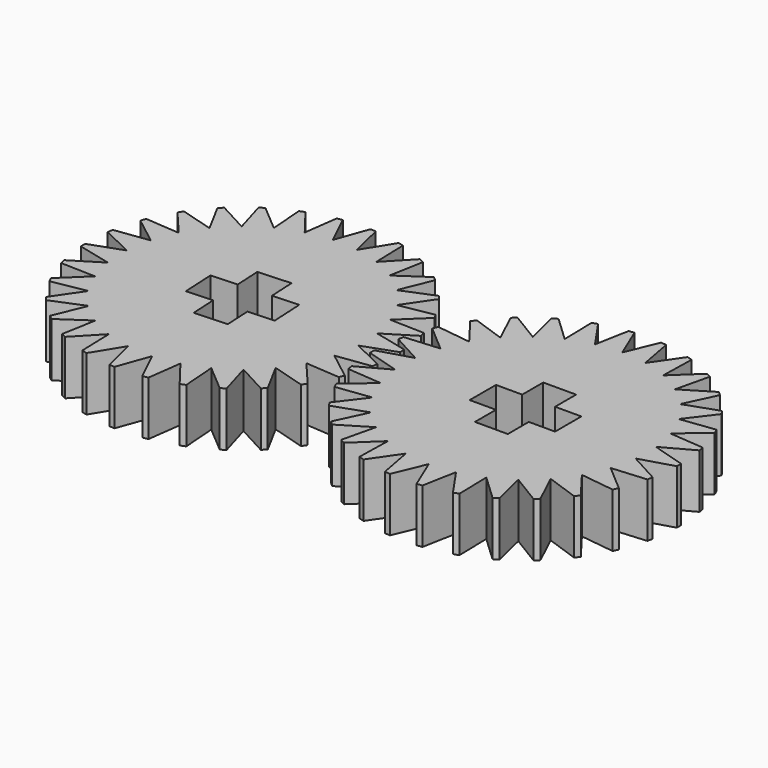
from build123d import *

# Parameters (mm, degrees)
PAD_DEPTH                 = 3
CYLINDER_R                = 8.5
CYLINDER_DEPTH            = 10
PAD001_DEPTH              = 3
CYLINDER001_R             = 8.5
CYLINDER001_DEPTH         = 10
COMMON001_PLACEMENT_ANGLE = 3


with BuildPart() as body:
    # Sketch → Pad (new body)
    with BuildSketch(Plane.XY):
        Polygon((0.940756, 8.950697), (1.393008, 6.553589), (2.781153, 8.559509), (2.725136, 6.120755), (4.5, 7.794229), (3.938161, 5.420414), (6.022175, 6.688303), (4.97907, 4.483175), (7.281153, 5.290067), (5.80237, 3.35), (8.221909, 3.66063), (6.372079, 2.070414), (8.803328, 1.871205), (6.663297, 0.700341), (9, 0), (6.663297, -0.700341), (8.803328, -1.871205), (6.372079, -2.070414), (8.221909, -3.66063), (5.80237, -3.35), (7.281153, -5.290067), (4.97907, -4.483175), (6.022175, -6.688303), (3.938161, -5.420414), (4.5, -7.794229), (2.725136, -6.120755), (2.781153, -8.559509), (1.393008, -6.553589), (0.940756, -8.950697), (0, -6.7), (-0.940756, -8.950697), (-1.393008, -6.553589), (-2.781153, -8.559509), (-2.725136, -6.120755), (-4.5, -7.794229), (-3.938161, -5.420414), (-6.022175, -6.688303), (-4.97907, -4.483175), (-7.281153, -5.290067), (-5.80237, -3.35), (-8.221909, -3.66063), (-6.372079, -2.070414), (-8.803328, -1.871205), (-6.663297, -0.700341), (-9, 0), (-6.663297, 0.700341), (-8.803328, 1.871205), (-6.372079, 2.070414), (-8.221909, 3.66063), (-5.80237, 3.35), (-7.281153, 5.290067), (-4.97907, 4.483175), (-6.022175, 6.688303), (-3.938161, 5.420414), (-4.5, 7.794229), (-2.725136, 6.120755), (-2.781153, 8.559509), (-1.393008, 6.553589), (-0.940756, 8.950697), (0, 6.7), align=None)
        Polygon((-2.365, 0.91), (-0.91, 0.91), (-0.91, 2.365), (0.91, 2.365), (0.91, 0.91), (2.365, 0.91), (2.365, -0.91), (0.91, -0.91), (0.91, -2.365), (-0.91, -2.365), (-0.91, -0.91), (-2.365, -0.91), align=None, mode=Mode.SUBTRACT)
    extrude(amount=PAD_DEPTH)


with BuildPart() as body_1:
    # Body placement: moved
    add(body.part.moved(Location((8, 0, 0))))


with BuildPart() as common:
    # Cylinder → Cylinder (new body)
    with BuildSketch(Plane(origin=(8, 0, -3.5), x_dir=(1, 0, 0), z_dir=(0, 0, 1))):
        Circle(CYLINDER_R)
    extrude(amount=CYLINDER_DEPTH)

    # Common: intersect Body
    add(body_1.part, mode=Mode.INTERSECT)


with BuildPart() as body001:
    # Sketch001 → Pad001 (new body)
    with BuildSketch(Plane.XY):
        Polygon((0.940756, 8.950697), (1.393008, 6.553589), (2.781153, 8.559509), (2.725136, 6.120755), (4.5, 7.794229), (3.938161, 5.420414), (6.022175, 6.688303), (4.97907, 4.483175), (7.281153, 5.290067), (5.80237, 3.35), (8.221909, 3.66063), (6.372079, 2.070414), (8.803328, 1.871205), (6.663297, 0.700341), (9, 0), (6.663297, -0.700341), (8.803328, -1.871205), (6.372079, -2.070414), (8.221909, -3.66063), (5.80237, -3.35), (7.281153, -5.290067), (4.97907, -4.483175), (6.022175, -6.688303), (3.938161, -5.420414), (4.5, -7.794229), (2.725136, -6.120755), (2.781153, -8.559509), (1.393008, -6.553589), (0.940756, -8.950697), (0, -6.7), (-0.940756, -8.950697), (-1.393008, -6.553589), (-2.781153, -8.559509), (-2.725136, -6.120755), (-4.5, -7.794229), (-3.938161, -5.420414), (-6.022175, -6.688303), (-4.97907, -4.483175), (-7.281153, -5.290067), (-5.80237, -3.35), (-8.221909, -3.66063), (-6.372079, -2.070414), (-8.803328, -1.871205), (-6.663297, -0.700341), (-9, 0), (-6.663297, 0.700341), (-8.803328, 1.871205), (-6.372079, 2.070414), (-8.221909, 3.66063), (-5.80237, 3.35), (-7.281153, 5.290067), (-4.97907, 4.483175), (-6.022175, 6.688303), (-3.938161, 5.420414), (-4.5, 7.794229), (-2.725136, 6.120755), (-2.781153, 8.559509), (-1.393008, 6.553589), (-0.940756, 8.950697), (0, 6.7), align=None)
        Polygon((-2.365, 0.91), (-0.91, 0.91), (-0.91, 2.365), (0.91, 2.365), (0.91, 0.91), (2.365, 0.91), (2.365, -0.91), (0.91, -0.91), (0.91, -2.365), (-0.91, -2.365), (-0.91, -0.91), (-2.365, -0.91), align=None, mode=Mode.SUBTRACT)
    extrude(amount=PAD001_DEPTH)


with BuildPart() as body001_1:
    # Body001 placement: moved
    add(body001.part.moved(Location((8, 0, 0))))


with BuildPart() as common001:
    # Cylinder001 → Cylinder001 (new body)
    with BuildSketch(Plane(origin=(8, 0, -3.5), x_dir=(1, 0, 0), z_dir=(0, 0, 1))):
        Circle(CYLINDER001_R)
    extrude(amount=CYLINDER001_DEPTH)

    # Common001: intersect Body001
    add(body001_1.part, mode=Mode.INTERSECT)


with BuildPart() as common001_1:
    # Common001 placement: moved
    add(common001.part.moved(Location((-16, 0, 0))).rotate(Axis((-16, 0, 0), (0, 0, 1)), COMMON001_PLACEMENT_ANGLE))


solid = Compound([common.part, common001_1.part])
